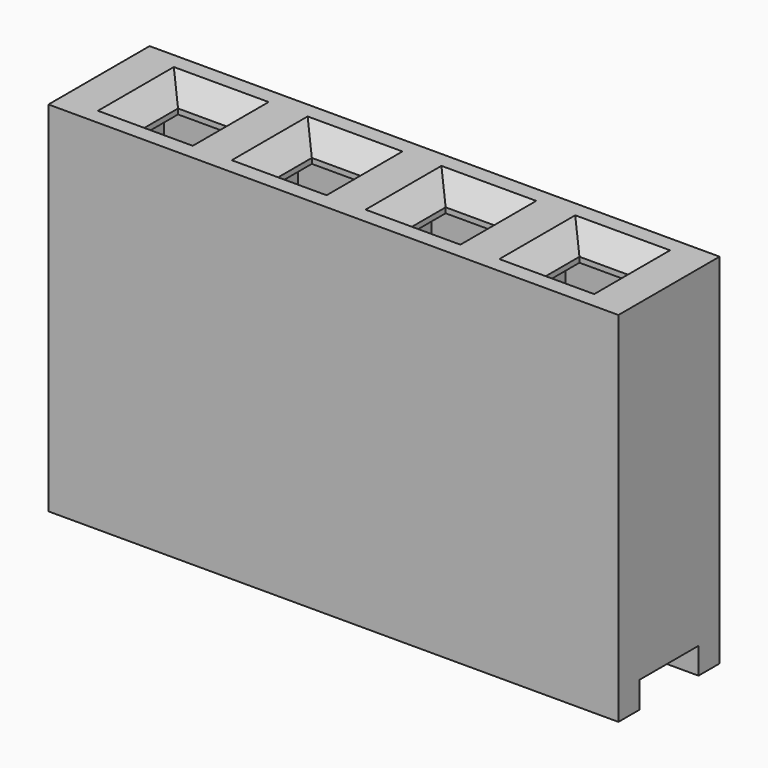
from build123d import *

# Parameters (mm, degrees)
SKETCH007_W      = 1
SKETCH007_H      = 1
EXTRUDE007_DEPTH = 9
SKETCH008_W      = 4
SKETCH008_H      = 1.4
EXTRUDE008_DEPTH = 0.5
SKETCH006_W      = 1.85
SKETCH006_H      = 1.4
EXTRUDE006_DEPTH = 6.3
SKETCH005_W      = 3.2
SKETCH005_H      = 2.4
EXTRUDE005_DEPTH = 6.8
CHAMFER001_SIZE  = 0.4
ARRAY003_X_COUNT = 4
ARRAY003_X_PITCH = 2.54


with BuildPart() as extrude007:
    # Sketch007 → Extrude007 (new body)
    with BuildSketch(Plane.XY):
        Rectangle(SKETCH007_W, SKETCH007_H)
    extrude(amount=EXTRUDE007_DEPTH)


with BuildPart() as extrude008:
    # Sketch008 → Extrude008 (new body)
    with BuildSketch(Plane.XY):
        Rectangle(SKETCH008_W, SKETCH008_H)
    extrude(amount=EXTRUDE008_DEPTH)


with BuildPart() as fusion002:
    # Sketch006 → Extrude006 (new body)
    with BuildSketch(Plane.XY):
        Rectangle(SKETCH006_W, SKETCH006_H)
    extrude(amount=EXTRUDE006_DEPTH)

    # Fusion002: union Extrude007, Extrude008
    add(extrude007.part)
    add(extrude008.part)


with BuildPart() as body001:
    # Sketch005 → Extrude005 (new body)
    with BuildSketch(Plane.XY):
        Rectangle(SKETCH005_W, SKETCH005_H)
    extrude(amount=EXTRUDE005_DEPTH)

    # Cut002: cut Fusion002
    add(fusion002.part, mode=Mode.SUBTRACT)

    # Chamfer001
    chamfer001_edges = [body001.edges().sort_by_distance(p)[0] for p in [
        (0.5, 0, 6.8),
        (0, 0.5, 6.8),
        (-0.5, 0, 6.8),
        (0, -0.5, 6.8),
    ]]
    chamfer(chamfer001_edges, length=CHAMFER001_SIZE)

    # Array003 X: body001 ×4


with BuildPart() as body001_1:
    add(body001.part)
    with Locations(*[(i * ARRAY003_X_PITCH, 0, 0) for i in range(1, ARRAY003_X_COUNT)]):
        add(body001.part)


solid = body001_1.part
